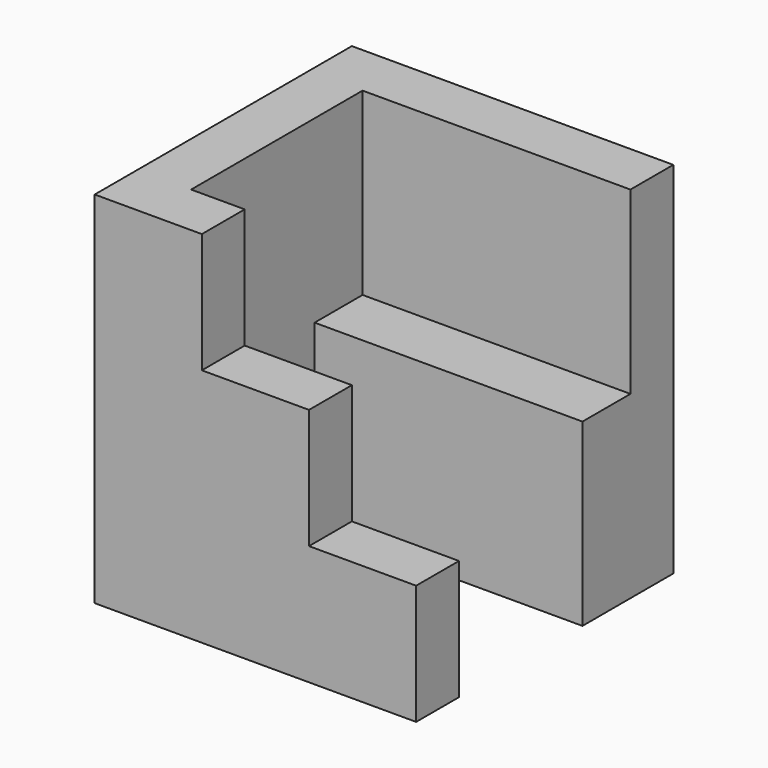
from build123d import *

# Parameters (mm, degrees)
F1_DEPTH = 60
F0_W     = 44.673472
F0_H     = 10
F2_DEPTH = 30
F0_W_2   = 17.869388
F0_H_2   = 8.934694
F3_DEPTH = 40
F0_W_3   = 17.869389
F4_DEPTH = 20


with BuildPart() as f1:
    # F0 (on Top) → F1 (new body)
    with BuildSketch(Plane.XY):
        Polygon((16.726474, 8.934694), (-36.881692, 8.934694), (-36.881692, -44.673472), (-19.012303, -44.673472), (-19.012303, -35.738778), (-27.946998, -35.738778), (-27.946998, -10), (-27.946998, 0), (16.726474, 0), align=None)
    extrude(amount=F1_DEPTH)

    # F0 (on Top) → F2 (join)
    with BuildSketch(Plane.XY):
        with Locations((-5.610262, -5)):
            Rectangle(F0_W, F0_H)
    extrude(amount=F2_DEPTH)

    # F0 (on Top) → F3 (join)
    with BuildSketch(Plane.XY):
        with Locations((-10.077609, -40.206125)):
            Rectangle(F0_W_2, F0_H_2)
    extrude(amount=F3_DEPTH)

    # F0 (on Top) → F4 (join)
    with BuildSketch(Plane.XY):
        with Locations((7.791779, -40.206125)):
            Rectangle(F0_W_3, F0_H_2)
    extrude(amount=F4_DEPTH)


solid = f1.part
